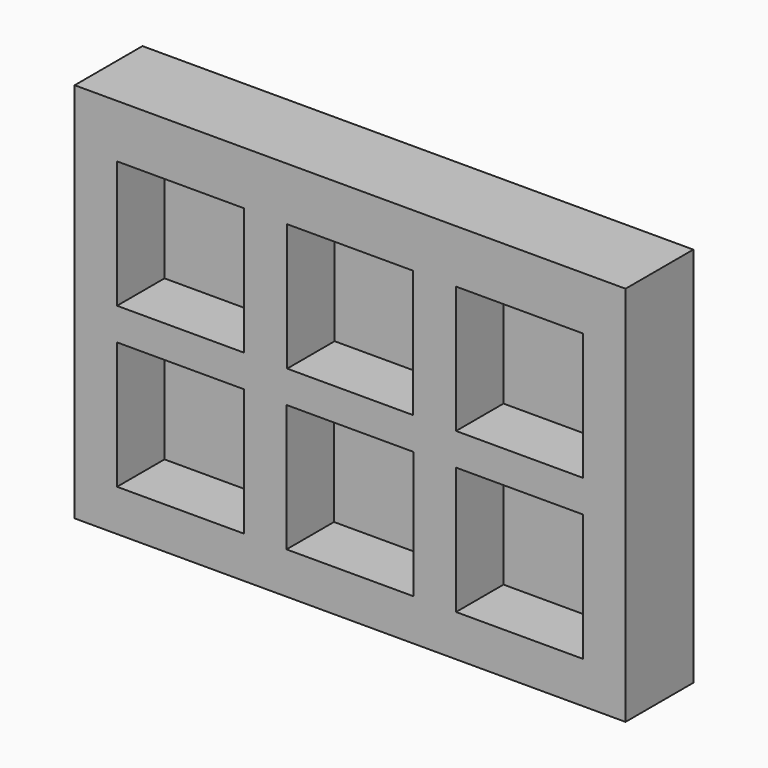
from build123d import *

# Parameters (mm, degrees)
F0_W     = 165.1
F0_H     = 114.3
F0_W_2   = 38.1
F0_H_2   = 38.1
F0_W_3   = 37.71172
F1_DEPTH = 25.4
F2_DEPTH = 7.62


with BuildPart() as f1:
    # F0 (on Front) → F1 (new body)
    with BuildSketch(Plane.XZ):
        Rectangle(F0_W, F0_H)
        with Locations((-50.8, -25.617093)):
            Rectangle(F0_W_2, F0_H_2, mode=Mode.SUBTRACT)
        with Locations((0, -25.617093)):
            Rectangle(F0_W_2, F0_H_2, mode=Mode.SUBTRACT)
        with Locations((50.8, -25.617093)):
            Rectangle(F0_W_2, F0_H_2, mode=Mode.SUBTRACT)
        with Locations((-50.8, 22.143589)):
            Rectangle(F0_W_2, F0_H_2, mode=Mode.SUBTRACT)
        with Locations((0, 22.143589)):
            Rectangle(F0_W_3, F0_H_2, mode=Mode.SUBTRACT)
        with Locations((50.8, 22.143589)):
            Rectangle(F0_W_2, F0_H_2, mode=Mode.SUBTRACT)
    extrude(amount=F1_DEPTH)

    # F0 (on Front) → F2 (join)
    with BuildSketch(Plane.XZ):
        with Locations((-50.8, 22.143589)):
            Rectangle(F0_W_2, F0_H_2)
        with Locations((0, 22.143589)):
            Rectangle(F0_W_3, F0_H_2)
        with Locations((50.8, 22.143589)):
            Rectangle(F0_W_2, F0_H_2)
        with Locations((-50.8, -25.617093)):
            Rectangle(F0_W_2, F0_H_2)
        with Locations((0, -25.617093)):
            Rectangle(F0_W_2, F0_H_2)
        with Locations((50.8, -25.617093)):
            Rectangle(F0_W_2, F0_H_2)
    extrude(amount=F2_DEPTH)


solid = f1.part
